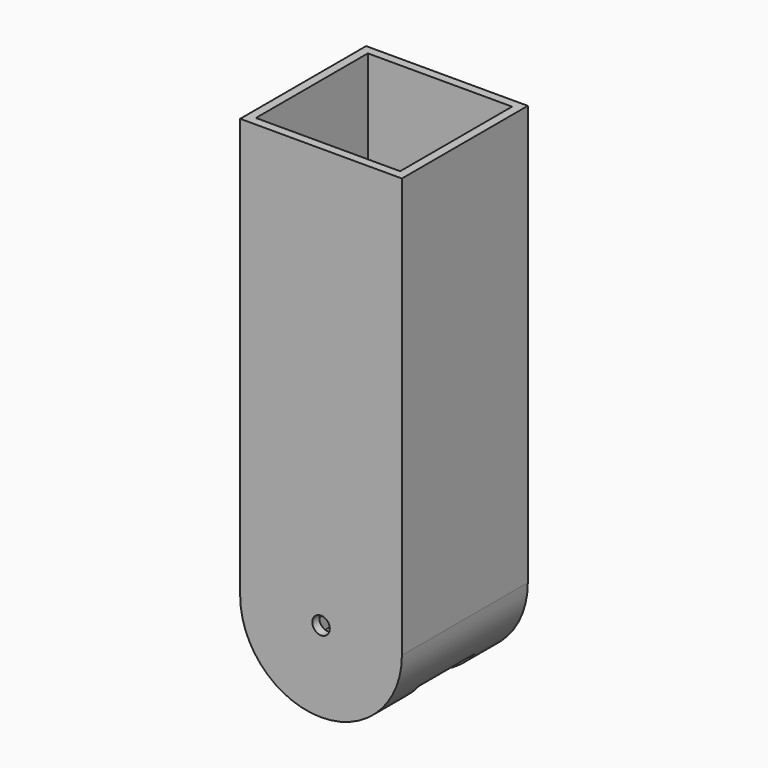
from build123d import *

# Parameters (mm, degrees)
F1_DEPTH = 50.8
F2_DEPTH = 50.8
F3_DEPTH = 50.8
F4_T     = 6.35
F5_R     = 6.35
F6_DEPTH = 114.301
F7_W     = 88.9
F7_H     = 50.8
F8_DEPTH = 58.7131


with BuildPart() as f1:
    # F0 (on Front) → F1 (new body, symmetric)
    with BuildSketch(Plane.XZ):
        with BuildLine():
            ThreePointArc((-52.3621, 0), (0, -52.3621), (52.3621, 0))
            ThreePointArc((52.3621, 0), (0, 52.3621), (-52.3621, 0))
        make_face()
    extrude(amount=F1_DEPTH, both=True)

    # F0 (on Front) → F2 (join)
    with BuildSketch(Plane.XZ):
        with BuildLine():
            ThreePointArc((-52.3621, 0), (0, 52.3621), (52.3621, 0))
            Line((52.3621, 0), (52.3621, 304.8))
            Line((52.3621, 304.8), (-52.3621, 304.8))
            Line((-52.3621, 304.8), (-52.3621, 0))
        make_face()
    extrude(amount=F2_DEPTH)

    # F0 (on Front) → F3 (join)
    with BuildSketch(Plane.XZ):
        with BuildLine():
            ThreePointArc((-52.3621, 0), (0, 52.3621), (52.3621, 0))
            Line((52.3621, 0), (52.3621, 304.8))
            Line((52.3621, 304.8), (-52.3621, 304.8))
            Line((-52.3621, 304.8), (-52.3621, 0))
        make_face()
    extrude(amount=-F3_DEPTH)

    # F4
    f4_openings = [f1.faces().sort_by_distance(p)[0] for p in [
        (0, 0, 304.8),
    ]]
    offset(amount=F4_T, openings=f4_openings, kind=Kind.INTERSECTION)

    # F5 (on face) → F6 (cut, through all)
    with BuildSketch(Plane.XZ.offset(57.15)):
        Circle(F5_R)
    extrude(amount=-F6_DEPTH, mode=Mode.SUBTRACT)

    # F7 (on Top) → F8 (cut, through all)
    with BuildSketch(Plane.XY):
        with Locations((1.5621, 0)):
            Rectangle(F7_W, F7_H)
    extrude(amount=-F8_DEPTH, mode=Mode.SUBTRACT)


solid = f1.part
